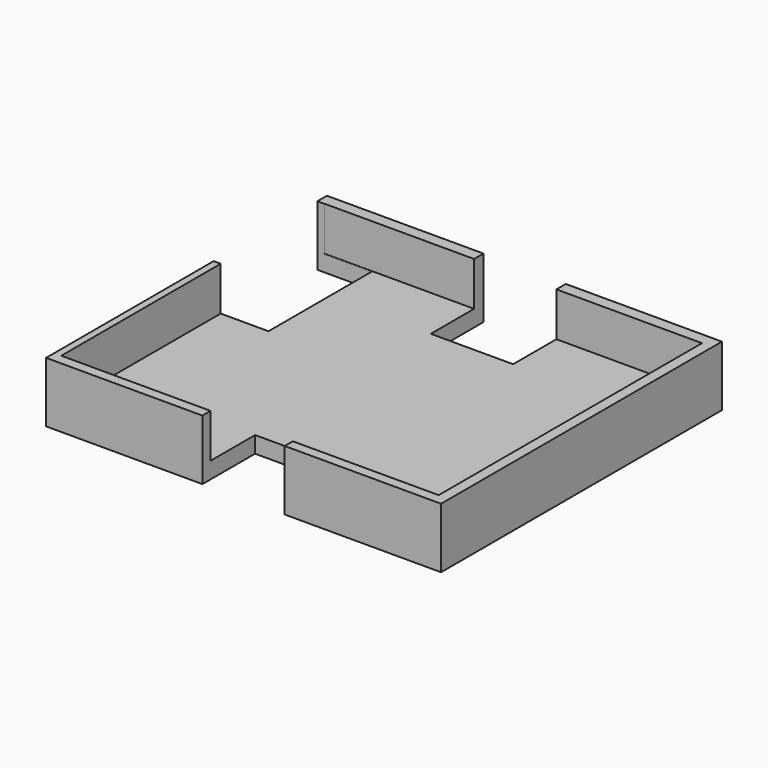
from build123d import *

# Parameters (mm, degrees)
SKETCH_W        = 36
SKETCH_H        = 32
PAD_DEPTH       = 5.5
SKETCH001_W     = 34.4
SKETCH001_H     = 30
POCKET_DEPTH    = 4
SKETCH002_W     = 11.815998
SKETCH002_H     = 6.205499
POCKET001_DEPTH = 5
SKETCH003_W     = 7.5
SKETCH003_H     = 9.005811
POCKET002_DEPTH = 6
SKETCH004_W     = 7.5
SKETCH004_H     = 11.328424
POCKET003_DEPTH = 6


with BuildPart() as part:
    # Sketch → Pad (new body)
    with BuildSketch(Plane.XY):
        with Locations((18, 16)):
            Rectangle(SKETCH_W, SKETCH_H)
    extrude(amount=PAD_DEPTH)

    # Sketch001 (on Face6 of Pad) → Pocket (cut)
    with BuildSketch(Plane.XY.offset(5.5)):
        with Locations((17.841014, 15.929226)):
            Rectangle(SKETCH001_W, SKETCH001_H)
    extrude(amount=-POCKET_DEPTH, mode=Mode.SUBTRACT)

    # Sketch002 (on Face2 of Pocket) → Pocket001 (cut)
    with BuildSketch(Plane(origin=(0, 0, 0), x_dir=(0, -1, 0), z_dir=(-1, 0, 0))):
        with Locations((-24.999628, 2.678109)):
            Rectangle(SKETCH002_W, SKETCH002_H)
    extrude(amount=-POCKET001_DEPTH, mode=Mode.SUBTRACT)

    # Sketch003 (on Face1 of Pocket001) → Pocket002 (cut)
    with BuildSketch(Plane.XZ):
        with Locations((18, 2.765324)):
            Rectangle(SKETCH003_W, SKETCH003_H)
    extrude(amount=-POCKET002_DEPTH, mode=Mode.SUBTRACT)

    # Sketch004 (on Face7 of Pocket001) → Pocket003 (cut)
    with BuildSketch(Plane(origin=(0, 32, 0), x_dir=(-1, 0, 0), z_dir=(0, 1, 0))):
        with Locations((-18.017854, 3.606522)):
            Rectangle(SKETCH004_W, SKETCH004_H)
    extrude(amount=-POCKET003_DEPTH, mode=Mode.SUBTRACT)


solid = part.part
